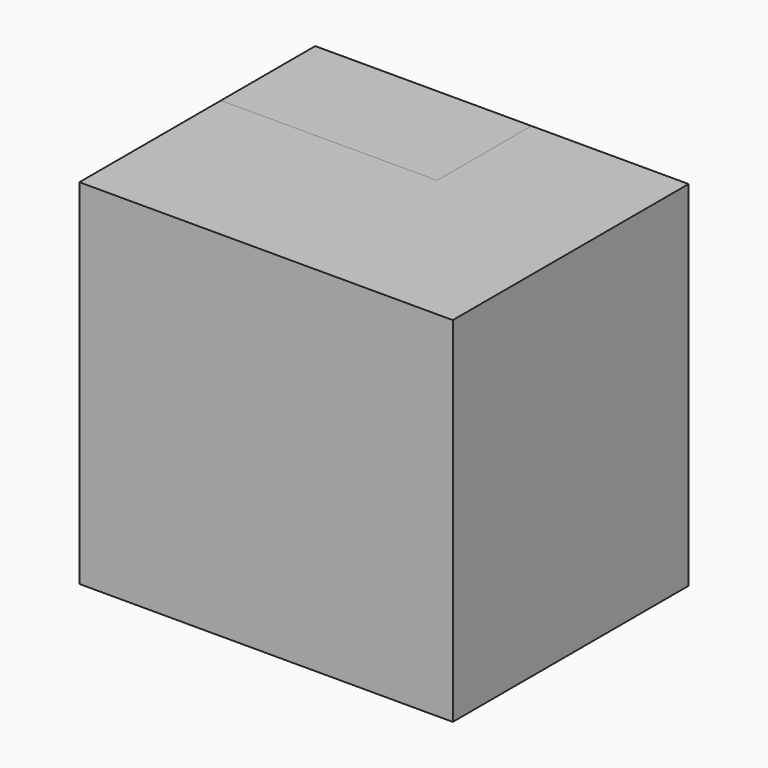
from build123d import *

# Parameters (mm, degrees)
F0_W     = 203.2
F0_H     = 152.4
F1_DEPTH = 457.2
F2_W     = 279.4
F2_H     = 152.4
F3_DEPTH = 152.4


with BuildPart() as f1:
    # F0 (on Top) → F1 (new body)
    with BuildSketch(Plane.XY):
        Polygon((38.1, 114.3), (-241.3, 114.3), (-241.3, -114.3), (241.3, -114.3), (241.3, 114.3), align=None)
        with Locations((139.7, 190.5)):
            Rectangle(F0_W, F0_H)
    extrude(amount=F1_DEPTH)


with BuildPart() as f3:
    # F2 (on face) → F3 (new body)
    with BuildSketch(Plane(origin=(0, 114.3, 0), x_dir=(-1, 0, 0), z_dir=(0, 1, 0))):
        with Locations((101.6, 381)):
            Rectangle(F2_W, F2_H)
    extrude(amount=F3_DEPTH)


solid = Compound([f1.part, f3.part])
